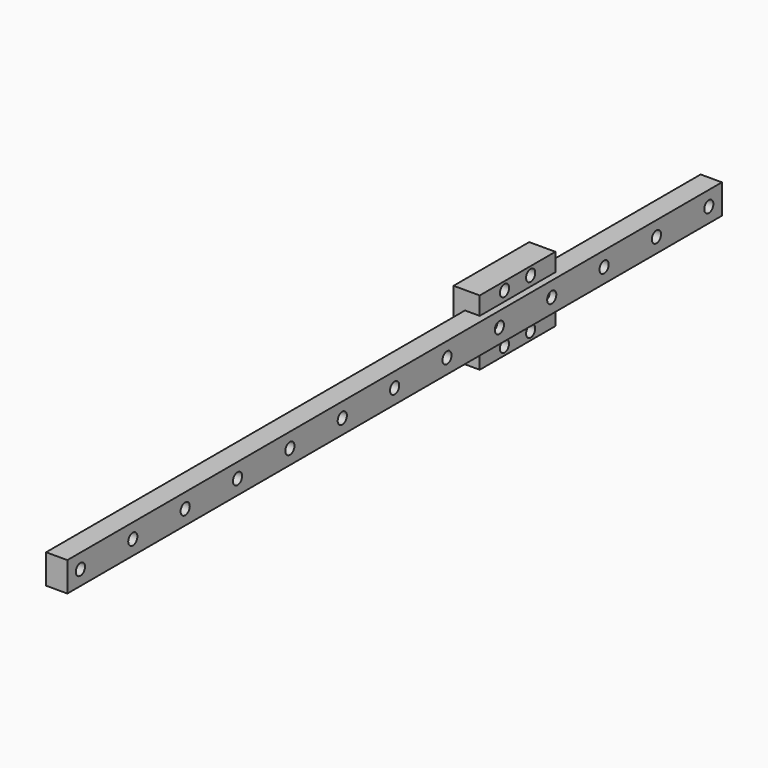
from build123d import *

# Parameters (mm, degrees)
SKETCH026_W             = 9
SKETCH026_H             = 250
PAD014_DEPTH            = 6.5
SKETCH027_R             = 1.75
POCKET010_DEPTH         = 6.5
LINEARPATTERN005_COUNT  = 13
LINEARPATTERN005_PITCH  = 20
SKETCH028_R             = 3
POCKET011_DEPTH         = 3.5
LINEARPATTERN004_COUNT  = 13
LINEARPATTERN004_PITCH  = 20
SKETCH025_W             = 20
SKETCH025_H             = 28.9
SKETCH025_R             = 1.75
PAD015_DEPTH            = 8
BODY006_PLACEMENT_ANGLE = 90


with BuildPart() as part:
    # Sketch026 → Pad014 (new body)
    with BuildSketch(Plane.XY):
        with Locations((0, 125)):
            Rectangle(SKETCH026_W, SKETCH026_H)
    extrude(amount=-PAD014_DEPTH)

    # Sketch027 → Pocket010 (cut)
    with BuildSketch(Plane.XY):
        with Locations((0, 5)):
            Circle(SKETCH027_R)
    pocket010 = extrude(amount=-POCKET010_DEPTH, mode=Mode.SUBTRACT)

    # LinearPattern005: Pocket010 ×13
    with Locations(*[(0, i * LINEARPATTERN005_PITCH, 0) for i in range(1, LINEARPATTERN005_COUNT)]):
        add(pocket010, mode=Mode.SUBTRACT)

    # Sketch028 → Pocket011 (cut)
    with BuildSketch(Plane.XY):
        with Locations((0, 5)):
            Circle(SKETCH028_R)
    pocket011 = extrude(amount=-POCKET011_DEPTH, mode=Mode.SUBTRACT)

    # LinearPattern004: Pocket011 ×13
    with Locations(*[(0, i * LINEARPATTERN004_PITCH, 0) for i in range(1, LINEARPATTERN004_COUNT)]):
        add(pocket011, mode=Mode.SUBTRACT)

    # Sketch025 → Pad015 (join)
    with BuildSketch(Plane.XY.offset(-4.5)):
        with Locations((0, 174.45)):
            Rectangle(SKETCH025_W, SKETCH025_H)
        with Locations((-7.5, 179.45)):
            Circle(SKETCH025_R, mode=Mode.SUBTRACT)
        with Locations((7.5, 179.45)):
            Circle(SKETCH025_R, mode=Mode.SUBTRACT)
        with Locations((7.5, 169.45)):
            Circle(SKETCH025_R, mode=Mode.SUBTRACT)
        with Locations((-7.5, 169.45)):
            Circle(SKETCH025_R, mode=Mode.SUBTRACT)
    extrude(amount=PAD015_DEPTH)


with BuildPart() as part_1:
    # Body006 placement: moved
    add(part.part.moved(Location((128.5, 0, -15))).rotate(Axis((128.5, 0, -15), (0, -1, 0)), BODY006_PLACEMENT_ANGLE))


solid = part_1.part
